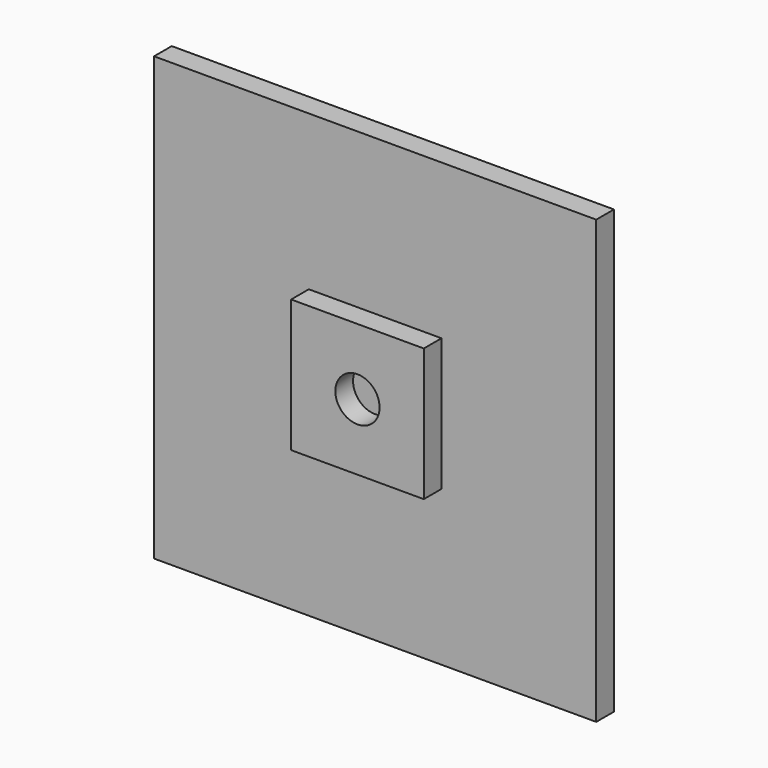
from build123d import *

# Parameters (mm, degrees)
F0_W     = 100
F0_H     = 100
F0_W_2   = 95
F0_H_2   = 95
F1_DEPTH = 5
F2_DEPTH = 2
F3_W     = 30
F3_H     = 30
F4_DEPTH = 5
F5_R     = 5
F6_DEPTH = 5


with BuildPart() as f1:
    # F0 (on Front) → F1 (new body)
    with BuildSketch(Plane.XZ):
        Rectangle(F0_W, F0_H)
        Rectangle(F0_W_2, F0_H_2, mode=Mode.SUBTRACT)
        Rectangle(F0_W_2, F0_H_2)
    extrude(amount=F1_DEPTH)

    # F0 (on Front) → F2 (cut)
    with BuildSketch(Plane.XZ):
        Rectangle(F0_W_2, F0_H_2)
    extrude(amount=F2_DEPTH, mode=Mode.SUBTRACT)

    # F3 (on face) → F4 (join)
    with BuildSketch(Plane.XZ.offset(5)):
        Rectangle(F3_W, F3_H)
    extrude(amount=F4_DEPTH)

    # F5 (on face) → F6 (cut)
    with BuildSketch(Plane.XZ.offset(10)):
        Circle(F5_R)
    extrude(amount=-F6_DEPTH, mode=Mode.SUBTRACT)


solid = f1.part
